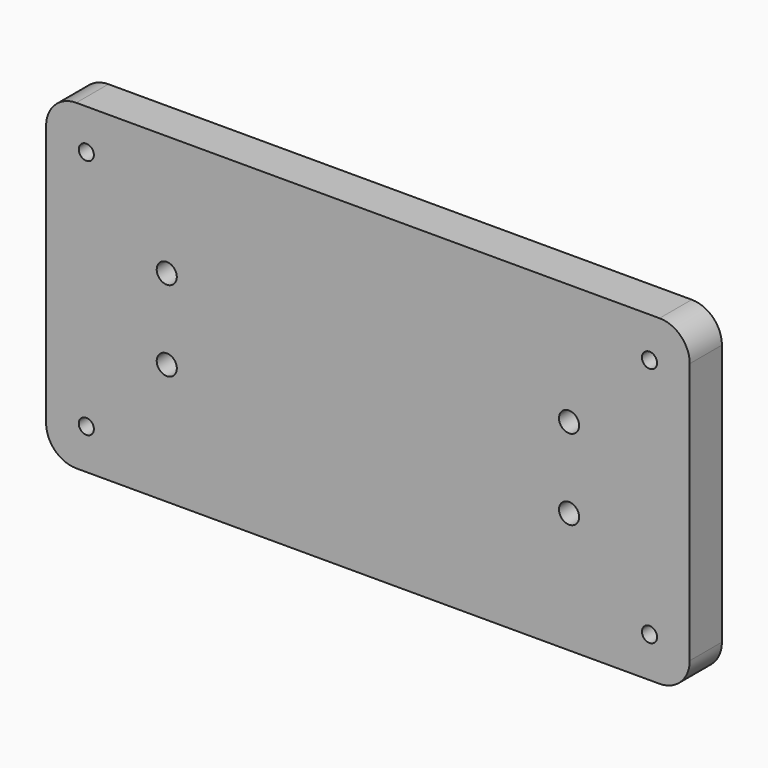
from build123d import *

# Parameters (mm, degrees)
F0_W     = 203.2
F0_H     = 101.6
F1_DEPTH = 12.7
F2_R     = 9.525
F4_D     = 4.7752
F6_D     = 6.35


with BuildPart() as f1:
    # F0 (on Front) → F1 (new body)
    with BuildSketch(Plane.XZ):
        with Locations((101.6, 50.8)):
            Rectangle(F0_W, F0_H)
    extrude(amount=F1_DEPTH)

    # F2
    f2_edges = [f1.edges().sort_by_distance(p)[0] for p in [
        (0, -6.35, 101.6),
        (0, -6.35, 0),
        (203.2, -6.35, 0),
        (203.2, -6.35, 101.6),
    ]]
    fillet(f2_edges, radius=F2_R)

    # F4 (through all)
    with Locations(Plane.XZ.offset(12.7)):
        with Locations((12.7, 88.9), (12.7, 12.7), (190.5, 12.7), (190.5, 88.9)):
            Hole(F4_D / 2)

    # F6 (through all)
    with Locations(Plane.XZ.offset(12.7)):
        with Locations((38.1, 63.5), (38.1, 38.1), (165.1, 38.1), (165.1, 63.5)):
            Hole(F6_D / 2)


solid = f1.part
